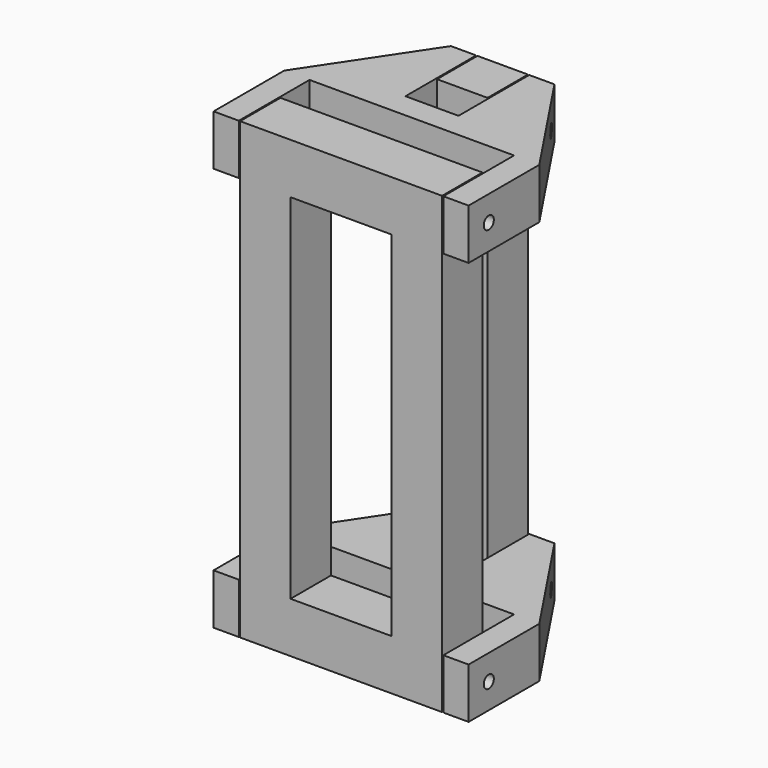
from build123d import *

# Parameters (mm, degrees)
F3_W      = 80
F3_H      = 180
F3_W_2    = 40
F3_H_2    = 140
F4_DEPTH  = 20
F7_DEPTH  = 20
F8_START  = -160
F8_DEPTH  = 20
F11_W     = 20
F11_H     = 180
F12_DEPTH = 20
F9_R      = 2.5
F13_DEPTH = 110.501


with BuildPart() as f4:
    # F3 (on Front) → F4 (new body)
    with BuildSketch(Plane.XZ):
        with Locations((-60, -90)):
            Rectangle(F3_W, F3_H)
        with Locations((-60, -90)):
            Rectangle(F3_W_2, F3_H_2, mode=Mode.SUBTRACT)
    extrude(amount=F4_DEPTH)


with BuildPart() as f7:
    # F6 (on offset) → F7 (new body)
    with BuildSketch(Plane.XY):
        Polygon((-110.5, -20), (-100.5, -20), (-100.5, 15), (-19.5, 15), (-19.5, -20), (-9.5, -20), (-9.5, 15), (-39.5, 60), (-49.5, 60), (-49.5, 25), (-70.5, 25), (-70.5, 60), (-80.5, 60), (-110.5, 15), align=None)
    extrude(amount=-F7_DEPTH)


with BuildPart() as f8:
    # F6 (on offset) → F8 (new body)
    with BuildSketch(Plane.XY.offset(F8_START)):
        Polygon((-110.5, -20), (-100.5, -20), (-100.5, 15), (-19.5, 15), (-19.5, -20), (-9.5, -20), (-9.5, 15), (-39.5, 60), (-49.5, 60), (-49.5, 25), (-70.5, 25), (-70.5, 60), (-80.5, 60), (-110.5, 15), align=None)
    extrude(amount=-F8_DEPTH)


with BuildPart() as f12:
    # F11 (on offset) → F12 (new body)
    with BuildSketch(Plane.YZ.offset(-70)):
        with Locations((50, -90)):
            Rectangle(F11_W, F11_H)
    extrude(amount=F12_DEPTH)


with BuildPart() as f13_tool:
    # F9 (on Right) → F13 (new body, through all)
    with BuildSketch(Plane.YZ):
        with Locations((-10, -10)):
            Circle(F9_R)
        with Locations((-10, -170)):
            Circle(F9_R)
        with Locations((50, -10)):
            Circle(F9_R)
        with Locations((50, -170)):
            Circle(F9_R)
    extrude(amount=-F13_DEPTH)


with BuildPart() as f4_1:
    add(f4.part)

    # F13: cut by f13_tool
    add(f13_tool.part, mode=Mode.SUBTRACT)


with BuildPart() as f7_1:
    add(f7.part)

    # F13: cut by f13_tool
    add(f13_tool.part, mode=Mode.SUBTRACT)


with BuildPart() as f8_1:
    add(f8.part)

    # F13: cut by f13_tool
    add(f13_tool.part, mode=Mode.SUBTRACT)


with BuildPart() as f12_1:
    add(f12.part)

    # F13: cut by f13_tool
    add(f13_tool.part, mode=Mode.SUBTRACT)


solid = Compound([f4_1.part, f7_1.part, f8_1.part, f12_1.part])
